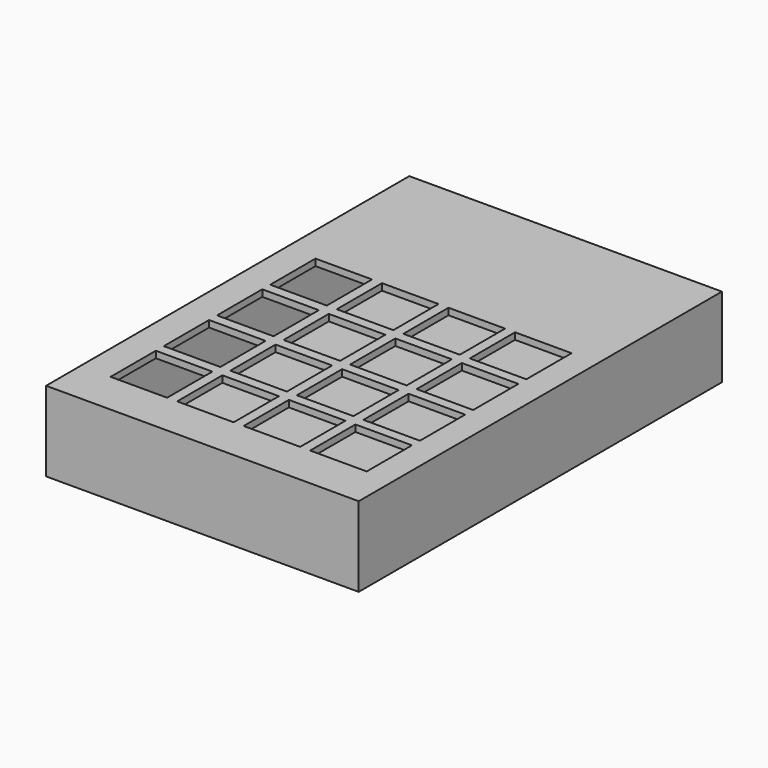
from build123d import *

# Parameters (mm, degrees)
SKETCH003_W   = 90
SKETCH003_H   = 132.5
PAD_DEPTH     = 2
SKETCH005_R   = 1.5
PAD001_DEPTH  = 5
SKETCH006_W   = 17
SKETCH006_H   = 17
PAD005_DEPTH  = 40
ARRAY_X_COUNT = 4
ARRAY_X_PITCH = 20
ARRAY_Y_COUNT = 4
ARRAY_Y_PITCH = 20
SKETCH_W      = 94
SKETCH_H      = 136.5
SKETCH_W_2    = 90
SKETCH_H_2    = 132.5
PAD004_DEPTH  = 22
SKETCH001_W   = 94
SKETCH001_H   = 136.5
PAD003_DEPTH  = 2
POCKET_DEPTH  = 2


with BuildPart() as base:
    # Sketch003 → Pad (new body)
    with BuildSketch(Plane.XY):
        with Locations((45, 66.25)):
            Rectangle(SKETCH003_W, SKETCH003_H)
    extrude(amount=PAD_DEPTH)


with BuildPart() as fusion:
    # Pad001 base: copy of Base
    add(base.part)

    # Sketch005 → Pad001 (new body)
    with BuildSketch(Plane.XY.offset(2)):
        with BuildLine():
            Line((0, 10), (7, 10))
            ThreePointArc((10, 7), (9.12132, 9.12132), (7, 10))
            Line((10, 7), (10, 0))
            Line((10, 0), (0, 0))
            Line((0, 10), (0, 0))
        make_face()
        with Locations((5, 5)):
            Circle(SKETCH005_R, mode=Mode.SUBTRACT)
        with BuildLine():
            Line((84, 9), (90, 9))
            Line((90, 9), (90, 0))
            Line((90, 0), (81, 0))
            Line((81, 0), (81, 6))
            ThreePointArc((84, 9), (81.87868, 8.12132), (81, 6))
        make_face()
        with Locations((85, 5)):
            Circle(SKETCH005_R, mode=Mode.SUBTRACT)
        with BuildLine():
            Line((83, 120), (90, 120))
            Line((90, 120), (90, 132.5))
            Line((90, 132.5), (80, 132.5))
            Line((80, 132.5), (80, 123))
            ThreePointArc((80, 123), (80.87868, 120.87868), (83, 120))
        make_face()
        with Locations((85, 125)):
            Circle(SKETCH005_R, mode=Mode.SUBTRACT)
        with BuildLine():
            Line((7, 118.561478), (0, 118.561478))
            Line((0, 118.561478), (0, 132.457657))
            Line((0, 132.457657), (10, 132.457657))
            Line((10, 132.457657), (10, 121.561478))
            ThreePointArc((7, 118.561478), (9.12132, 119.440158), (10, 121.561478))
        make_face()
        with Locations((5, 125)):
            Circle(SKETCH005_R, mode=Mode.SUBTRACT)
    extrude(amount=PAD001_DEPTH)

    # Fusion: union Base
    add(base.part)


with BuildPart() as array:
    # Sketch006 → Pad005 (new body)
    with BuildSketch(Plane.XY):
        with Locations((15.5, 19.5)):
            Rectangle(SKETCH006_W, SKETCH006_H)
    extrude(amount=PAD005_DEPTH)

    # Array X: Array ×4


with BuildPart() as array_1:
    add(array.part)
    with Locations(*[(i * ARRAY_X_PITCH, 0, 0) for i in range(1, ARRAY_X_COUNT)]):
        add(array.part)

    # Array Y: Array ×4


with BuildPart() as array_2:
    add(array_1.part)
    with Locations(*[(0, i * ARRAY_Y_PITCH, 0) for i in range(1, ARRAY_Y_COUNT)]):
        add(array_1.part)


with BuildPart() as pad004:
    # Sketch → Pad004 (new body)
    with BuildSketch(Plane.XY):
        with Locations((45, 66.25)):
            Rectangle(SKETCH_W, SKETCH_H)
        with Locations((45, 66.25)):
            Rectangle(SKETCH_W_2, SKETCH_H_2, mode=Mode.SUBTRACT)
    extrude(amount=PAD004_DEPTH)


with BuildPart() as cut:
    # Pad003 base: copy of Pad004
    add(pad004.part)

    # Sketch001 → Pad003 (new body)
    with BuildSketch(Plane.XY.offset(22)):
        with Locations((45, 66.25)):
            Rectangle(SKETCH001_W, SKETCH001_H)
    extrude(amount=PAD003_DEPTH)

    # Fusion001: union Pad004
    add(pad004.part)

    # Cut: cut Array
    add(array_2.part, mode=Mode.SUBTRACT)


with BuildPart() as pocket:
    # Pocket base: copy of Cut
    add(cut.part)

    # Sketch007 → Pocket (cut)
    with BuildSketch(Plane(origin=(0, 134.5, 0), x_dir=(-1, 0, 0), z_dir=(0, 1, 0))):
        with BuildLine():
            ThreePointArc((-48, 13.721389), (-50, 11.721389), (-48, 9.721389))
            Line((-48, 9.721389), (-43, 9.721389))
            ThreePointArc((-43, 9.721389), (-41, 11.721389), (-43, 13.721389))
            Line((-48, 13.721389), (-43, 13.721389))
        make_face()
    extrude(amount=-POCKET_DEPTH, mode=Mode.SUBTRACT)


with BuildPart() as fusion002:
    # Fusion002 base: copy of Cut
    add(cut.part)

    # Fusion002: union Pocket
    add(pocket.part)


solid = Compound([fusion.part, fusion002.part])
